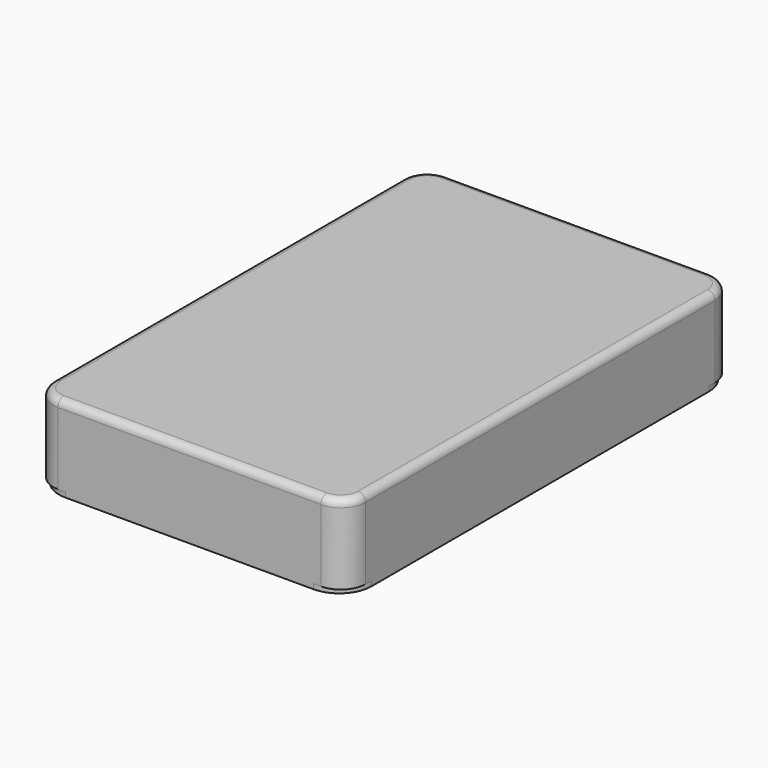
from build123d import *

# Parameters (mm, degrees)
F1_W     = 63.0000010133
F1_H     = 98.0000010133
F2_DEPTH = 16
F0_W     = 60
F0_H     = 95
F3_DEPTH = 14
F4_R     = 5
F5_R     = 1.5


with BuildPart() as f2:
    # F1 (on Top) → F2 (new body)
    with BuildSketch(Plane.XY):
        Rectangle(F1_W, F1_H)
    extrude(amount=F2_DEPTH)

    # F0 (on Top) → F3 (cut, through all)
    with BuildSketch(Plane.XY):
        Rectangle(F0_W, F0_H)
    extrude(amount=F3_DEPTH, mode=Mode.SUBTRACT)

    # F4
    f4_edges = [f2.edges().sort_by_distance(p)[0] for p in [
        (-30, 47.5, 7),
        (30, 47.5, 7),
        (31.500001, 49.000001, 8),
        (-31.500001, 49.000001, 8),
        (-31.500001, -49.000001, 8),
        (-30, -47.5, 7),
        (30, -47.5, 7),
        (31.500001, -49.000001, 8),
    ]]
    fillet(f4_edges, radius=F4_R)

    # F5
    f5_edges = [f2.edges().sort_by_distance(p)[0] for p in [
        (0, 49.000001, 16),
        (30.035534, 47.535534, 16),
        (-30.035534, 47.535534, 16),
        (31.500001, 0, 16),
        (-31.500001, 0, 16),
        (30.035534, -47.535534, 16),
        (-30.035534, -47.535534, 16),
        (0, -49.000001, 16),
    ]]
    fillet(f5_edges, radius=F5_R)

    # F8: sweep along a path in F6
    with BuildLine(Plane.XY) as f8_path:
        Line((25, -47.5), (-25, -47.5))
        ThreePointArc((-25, -47.5), (-28.5355339059, -46.0355339059), (-30, -42.5))
        Line((-30, -42.5), (-30, 42.5))
        ThreePointArc((-30, 42.5), (-28.5355339059, 46.0355339059), (-25, 47.5))
        Line((-25, 47.5), (25, 47.5))
        ThreePointArc((25, 47.5), (28.5355339059, 46.0355339059), (30, 42.5))
        Line((30, 42.5), (30, -42.5))
        ThreePointArc((30, -42.5), (28.5355339059, -46.0355339059), (25, -47.5))
    # F7 (on Front) → F8 (sweep)
    with BuildSketch(Plane.XZ):
        with BuildLine():
            ThreePointArc((-29, -1), (-29.7071067812, -0.7071067812), (-30, 0))
            Line((-30, 0), (-31.5000005066, 0))
            Line((-31.5000005066, 0), (-31.5000005066, -1))
            Line((-31.5000005066, -1), (-30, -1))
            Line((-30, -1), (-29, -1))
        make_face()
    sweep(path=f8_path.line)


solid = f2.part
